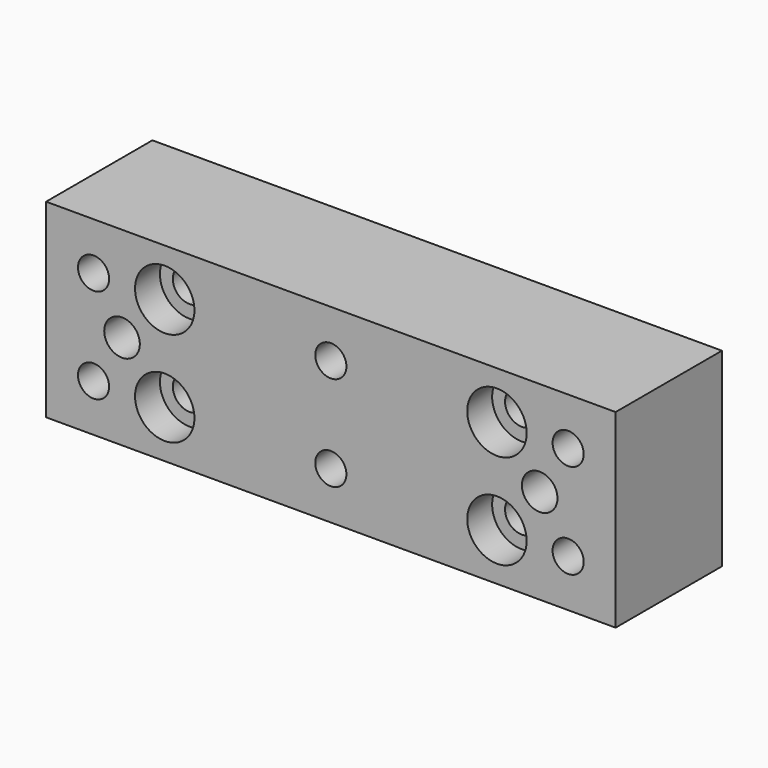
from build123d import *

# Parameters (mm, degrees)
F0_W           = 76.2
F0_H           = 25.4
F1_DEPTH       = 17.78
F3_D           = 4.1656
F3_DEPTH       = 8.382
F3_TIP         = 1.2514724973
F5_D           = 4.4958
F5_CBORE_D     = 7.9502
F5_CBORE_DEPTH = 4.1656
F7_D           = 4.7625


with BuildPart() as f1:
    # F0 (on Front) → F1 (new body)
    with BuildSketch(Plane.XZ):
        Rectangle(F0_W, F0_H)
    extrude(amount=F1_DEPTH)

    # F3
    with Locations(Plane.XZ.offset(17.78)):
        with Locations((-31.75, 6.35), (0, 6.35), (31.75, 6.35), (31.75, -6.35), (0, -6.35), (-31.75, -6.35)):
            Hole(F3_D / 2, depth=F3_DEPTH)
            with Locations((0, 0, -(F3_DEPTH + F3_TIP / 2))):  # 118° drill point
                Cone(0, F3_D / 2, F3_TIP, mode=Mode.SUBTRACT)

    # F5 (through all)
    with Locations(Plane.XZ.offset(17.78)):
        with Locations((-22.225, 6.35), (22.225, 6.35), (22.225, -6.35), (-22.225, -6.35)):
            CounterBoreHole(F5_D / 2, F5_CBORE_D / 2, F5_CBORE_DEPTH)

    # F7 (through all)
    with Locations(Plane.XZ.offset(17.78)):
        with Locations((-27.94, 0), (27.94, 0)):
            Hole(F7_D / 2)


solid = f1.part
